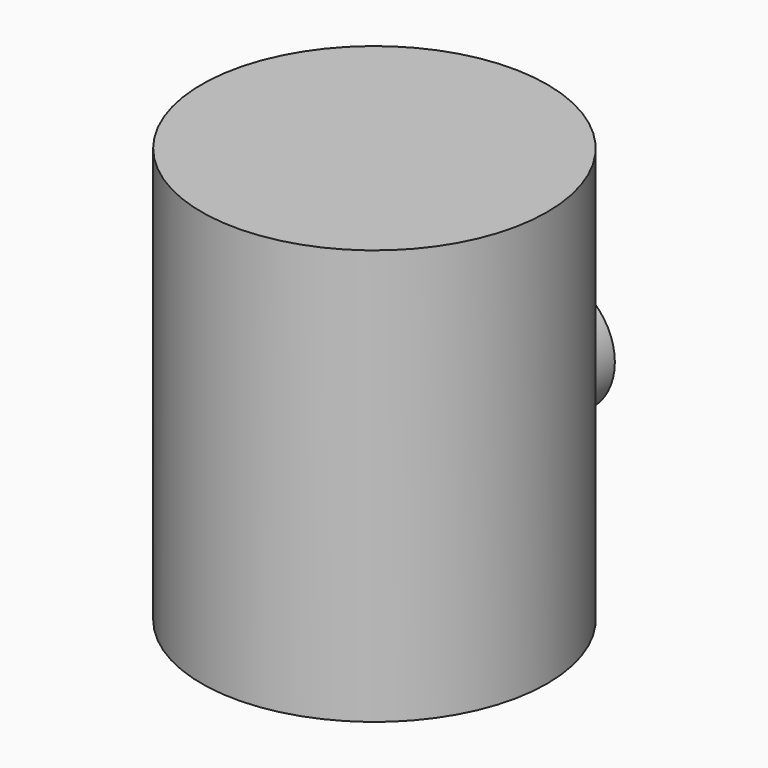
from build123d import *

# Parameters (mm, degrees)
F0_R     = 32.773688
F1_DEPTH = 78.74
F2_R     = 25.62025
F3_DEPTH = 65.532
F4_R     = 5.08
F5_R     = 11.468996
F5_R_2   = 7.838538
F6_DEPTH = 42.672


with BuildPart() as f1:
    # F0 (on Top) → F1 (new body)
    with BuildSketch(Plane.XY):
        Circle(F0_R)
    extrude(amount=F1_DEPTH)

    # F2 (on Top) → F3 (cut)
    with BuildSketch(Plane.XY):
        Circle(F2_R)
    extrude(amount=F3_DEPTH, mode=Mode.SUBTRACT)

    # F4
    f4_edges = [f1.edges().sort_by_distance(p)[0] for p in [
        (-25.62025, 0, 0),
        (-25.62025, 0, 65.532),
    ]]
    fillet(f4_edges, radius=F4_R)

    # F5 (on Front) → F6 (join)
    with BuildSketch(Plane.XZ):
        with Locations((0, 29.404234)):
            Circle(F5_R)
        with Locations((0, 29.404234)):
            Circle(F5_R_2, mode=Mode.SUBTRACT)
    extrude(amount=-F6_DEPTH)


solid = f1.part
